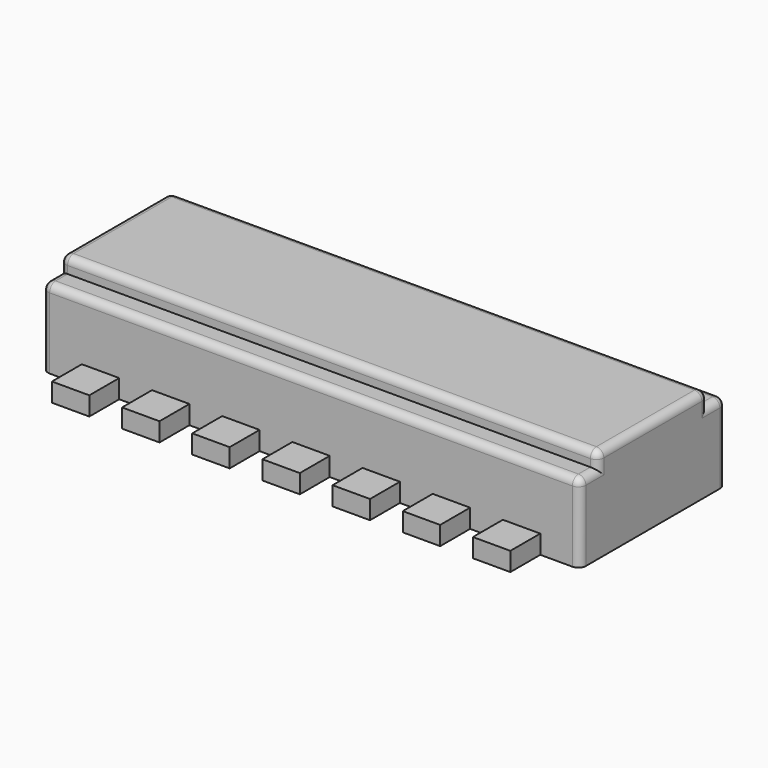
from build123d import *

# Parameters (mm, degrees)
F0_W     = 18.25752
F0_H     = 6.19252
F1_DEPTH = 3.175
F2_W     = 1.27
F2_H     = 1.27
F3_DEPTH = 0.635
F5_W     = 0.762
F5_H     = 0.508
F6_DEPTH = 25.4
F7_R     = 0.254


with BuildPart() as f1:
    # F0 (on Top) → F1 (new body)
    with BuildSketch(Plane.XY):
        with Locations((-0.4847390454, 0.6100881006)):
            Rectangle(F0_W, F0_H)
    extrude(amount=F1_DEPTH)

    # F2 (on Top) → F3 (join)
    with BuildSketch(Plane.XY):
        with Locations((-7.6322990454, 4.3413481006)):
            Rectangle(F2_W, F2_H)
        with Locations((-5.2497790454, 4.3413481006)):
            Rectangle(F2_W, F2_H)
        with Locations((-2.8672590454, 4.3413481006)):
            Rectangle(F2_W, F2_H)
        with Locations((-0.4847390454, 4.3413481006)):
            Rectangle(F2_W, F2_H)
        with Locations((1.8977809546, 4.3413481006)):
            Rectangle(F2_W, F2_H)
        with Locations((4.2803009546, 4.3413481006)):
            Rectangle(F2_W, F2_H)
        with Locations((6.6628209546, 4.3413481006)):
            Rectangle(F2_W, F2_H)
        with Locations((-7.6322990454, -3.1211718994)):
            Rectangle(F2_W, F2_H)
        with Locations((-5.2497790454, -3.1211718994)):
            Rectangle(F2_W, F2_H)
        with Locations((-2.8672590454, -3.1211718994)):
            Rectangle(F2_W, F2_H)
        with Locations((-0.4847390454, -3.1211718994)):
            Rectangle(F2_W, F2_H)
        with Locations((1.8977809546, -3.1211718994)):
            Rectangle(F2_W, F2_H)
        with Locations((4.2803009546, -3.1211718994)):
            Rectangle(F2_W, F2_H)
        with Locations((6.6628209546, -3.1211718994)):
            Rectangle(F2_W, F2_H)
    extrude(amount=F3_DEPTH)

    # F5 (on face) → F6 (cut)
    with BuildSketch(Plane(origin=(-9.6134990454, 0, 0), x_dir=(0, -1, 0), z_dir=(-1, 0, 0))):
        with Locations((-3.3253481006, 2.921)):
            Rectangle(F5_W, F5_H)
        with Locations((2.1051718994, 2.921)):
            Rectangle(F5_W, F5_H)
    extrude(amount=-F6_DEPTH, mode=Mode.SUBTRACT)

    # F7
    f7_edges = [f1.edges().sort_by_distance(p)[0] for p in [
        (-0.484739, 3.706348, 2.667),
        (-0.484739, 2.944348, 3.175),
        (-0.484739, -1.724172, 3.175),
        (-0.484739, -2.486172, 2.667),
        (-9.613499, 0.610088, 3.175),
        (-9.613499, -1.724172, 2.921),
        (-9.613499, -2.105172, 2.667),
        (-9.613499, -2.486172, 1.3335),
        (-9.613499, 3.325348, 2.667),
        (-9.613499, 2.944348, 2.921),
        (-9.613499, 3.706348, 1.3335),
        (8.644021, -2.486172, 1.3335),
        (8.644021, -2.105172, 2.667),
        (8.644021, -1.724172, 2.921),
        (8.644021, 0.610088, 3.175),
        (8.644021, 2.944348, 2.921),
        (8.644021, 3.325348, 2.667),
        (8.644021, 3.706348, 1.3335),
    ]]
    fillet(f7_edges, radius=F7_R)


solid = f1.part
